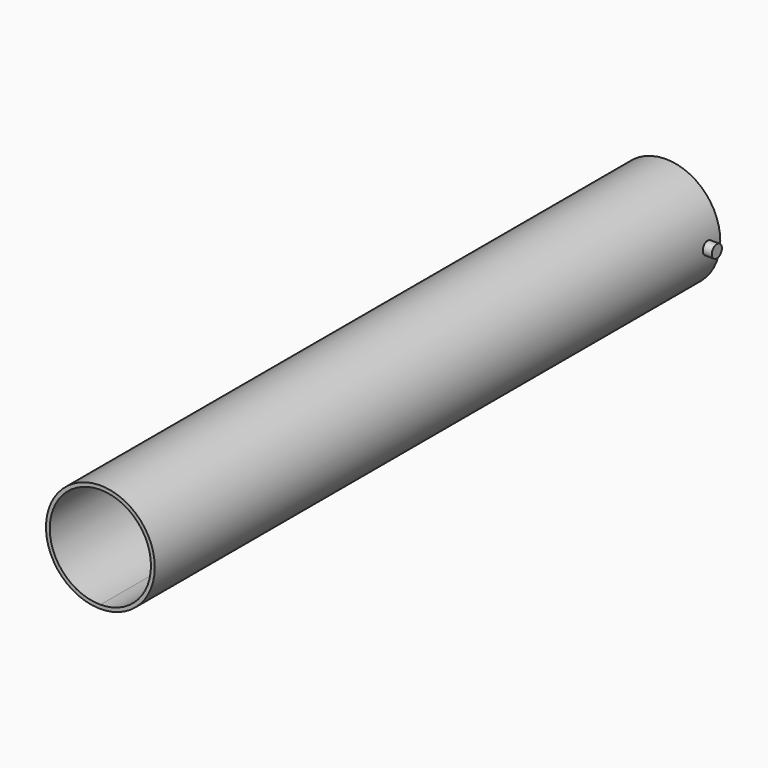
from build123d import *

# Parameters (mm, degrees)
F0_R     = 2.5
F1_DEPTH = 25
F2_R     = 21.5
F3_DEPTH = 279.4
F4_R     = 20
F5_DEPTH = 21.336


with BuildPart() as f1:
    # F0 (on Right) → F1 (new body, symmetric)
    with BuildSketch(Plane.YZ):
        with Locations((-6.053488, 0)):
            Circle(F0_R)
    extrude(amount=F1_DEPTH, both=True)

    # F4 (on Front) → F5 (cut)
    with BuildSketch(Plane.XZ):
        Circle(F4_R)
    extrude(amount=F5_DEPTH, mode=Mode.SUBTRACT)


with BuildPart() as f3:
    # F2 (on Front) → F3 (new body)
    with BuildSketch(Plane.XZ):
        Circle(F2_R)
        with BuildLine():
            ThreePointArc((0, 20), (14.142136, 14.142136), (20, 0))
            ThreePointArc((20, 0), (14.142136, -14.142136), (0, -20))
            ThreePointArc((0, -20), (-20, 0), (0, 20))
        make_face(mode=Mode.SUBTRACT)
    extrude(amount=F3_DEPTH)


solid = Compound([f1.part, f3.part])
